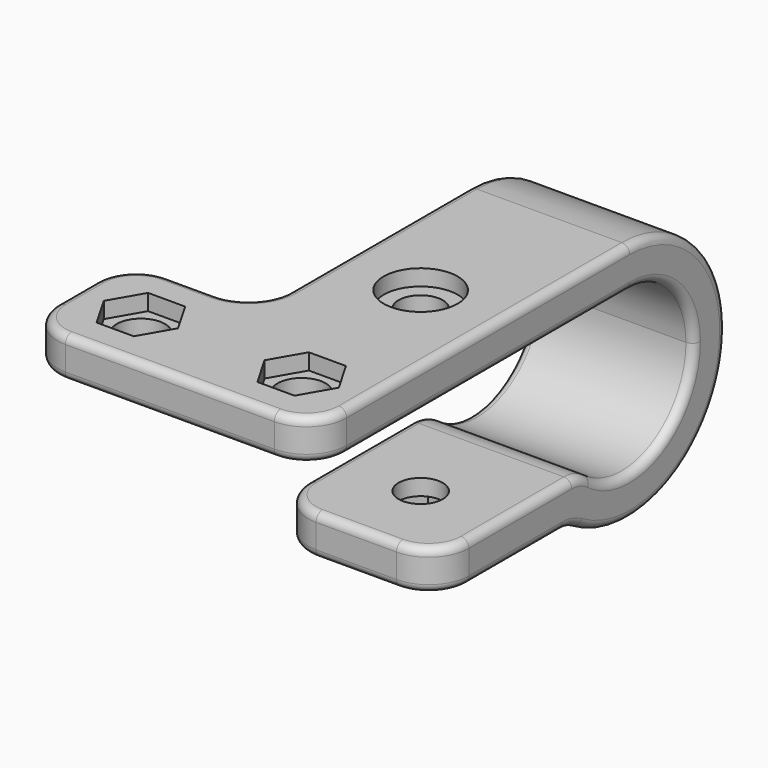
from build123d import *

# Parameters (mm, degrees)
F0_W      = 36
F0_H      = 16
F0_R      = 3
F1_DEPTH  = 5
F2_R      = 3
F3_DEPTH  = 2
F6_DEPTH  = 20
F8_D      = 5.5
F9_R      = 2.75
F10_DEPTH = 3
F11_R     = 4.6
F11_R_2   = 2.75
F12_DEPTH = 2
F13_R     = 5
F14_R     = 1


with BuildPart() as f1:
    # F0 (on Top) → F1 (new body)
    with BuildSketch(Plane.XY):
        Rectangle(F0_W, F0_H)
        with Locations((-10, 0)):
            Circle(F0_R, mode=Mode.SUBTRACT)
        with Locations((10, 0)):
            Circle(F0_R, mode=Mode.SUBTRACT)
    extrude(amount=F1_DEPTH)

    # F2 (on face) → F3 (cut)
    with BuildSketch(Plane.XY.offset(5)):
        Polygon((12.3094010768, 4), (7.6905989232, 4), (5.3811978465, 0), (7.6905989232, -4), (12.3094010768, -4), (14.6188021535, 0), align=None)
        with Locations((10, 0)):
            Circle(F2_R, mode=Mode.SUBTRACT)
        Polygon((-7.6905989232, 4), (-12.3094010768, 4), (-14.6188021535, 0), (-12.3094010768, -4), (-7.6905989232, -4), (-5.3811978465, 0), align=None)
        with Locations((-10, 0)):
            Circle(F2_R, mode=Mode.SUBTRACT)
    extrude(amount=-F3_DEPTH, mode=Mode.SUBTRACT)

    # F5 (on offset) → F6 (join)
    with BuildSketch(Plane.YZ.offset(18)):
        with BuildLine():
            ThreePointArc((41, 0), (48.0710678119, -2.9289321881), (51, -10))
            ThreePointArc((51, -10), (44.7805896177, -19.2578151927), (33.8585715715, -17))
            Line((33.8585715715, -17), (33.8585715715, -22))
            Line((33.8585715715, -22), (32, -22))
            ThreePointArc((32, -22), (47.7082039325, -23.416407865), (56, -10))
            ThreePointArc((56, -10), (51.6066017178, 0.6066017178), (41, 5))
            ThreePointArc((41, 5), (34.876275643, 3.6930639376), (29.8196601125, 0))
            Line((29.8196601125, 0), (41, 0))
        make_face()
        with BuildLine():
            Line((33.8585715715, -22), (33.8585715715, -17))
            Line((33.8585715715, -17), (27.7335008386, -17))
            ThreePointArc((27.7335008386, -17), (29.5895115693, -19.7365678642), (32, -22))
            Line((32, -22), (33.8585715715, -22))
        make_face()
        with BuildLine():
            ThreePointArc((32, -22), (29.5895115693, -19.7365678642), (27.7335008386, -17))
            Line((27.7335008386, -17), (11, -17))
            Line((11, -17), (11, -22))
            Line((11, -22), (32, -22))
        make_face()
        with BuildLine():
            Line((8, 0), (29.8196601125, 0))
            ThreePointArc((29.8196601125, 0), (34.876275643, 3.6930639376), (41, 5))
            Line((41, 5), (8, 5))
            Line((8, 5), (8, 0))
        make_face()
        with BuildLine():
            ThreePointArc((41, 0), (48.0710678119, -2.9289321881), (51, -10))
            ThreePointArc((51, -10), (44.7805896177, -19.2578151927), (33.8585715715, -17))
            Line((33.8585715715, -17), (33.8585715715, -22))
            Line((33.8585715715, -22), (32, -22))
            ThreePointArc((32, -22), (47.7082039325, -23.416407865), (56, -10))
            ThreePointArc((56, -10), (51.6066017178, 0.6066017178), (41, 5))
            ThreePointArc((41, 5), (34.876275643, 3.6930639376), (29.8196601125, 0))
            Line((29.8196601125, 0), (41, 0))
        make_face()
    extrude(amount=-F6_DEPTH)

    # F8 (through all)
    with Locations(Plane(origin=(0, 0, -22), x_dir=(1, 0, 0), z_dir=(0, 0, -1))):
        with Locations((8, -21)):
            Hole(F8_D / 2)

    # F9 (on face) → F10 (cut)
    with BuildSketch(Plane(origin=(0, 0, -22), x_dir=(1, 0, 0), z_dir=(0, 0, -1))):
        Polygon((10.3094010768, -17), (5.6905989232, -17), (3.3811978465, -21), (5.6905989232, -25), (10.3094010768, -25), (12.6188021535, -21), align=None)
        with Locations((8, -21)):
            Circle(F9_R, mode=Mode.SUBTRACT)
    extrude(amount=-F10_DEPTH, mode=Mode.SUBTRACT)

    # F11 (on face) → F12 (cut)
    with BuildSketch(Plane.XY.offset(5)):
        with Locations((8, 21)):
            Circle(F11_R)
        with Locations((8, 21)):
            Circle(F11_R_2, mode=Mode.SUBTRACT)
    extrude(amount=-F12_DEPTH, mode=Mode.SUBTRACT)

    # F13
    f13_edges = [f1.edges().sort_by_distance(p)[0] for p in [
        (-2, 8, 2.5),
        (-18, 8, 2.5),
        (-18, -8, 2.5),
        (18, -8, 2.5),
        (8, 33.858572, -17),
        (8, 32, -22),
        (-2, 11, -19.5),
        (18, 11, -19.5),
    ]]
    fillet(f13_edges, radius=F13_R)

    # F14
    f14_edges = [f1.edges().sort_by_distance(p)[0] for p in [
        (-2, 24, -17),
        (-2, 23.232173, -22),
    ]]
    fillet(f14_edges, radius=F14_R)


solid = f1.part
